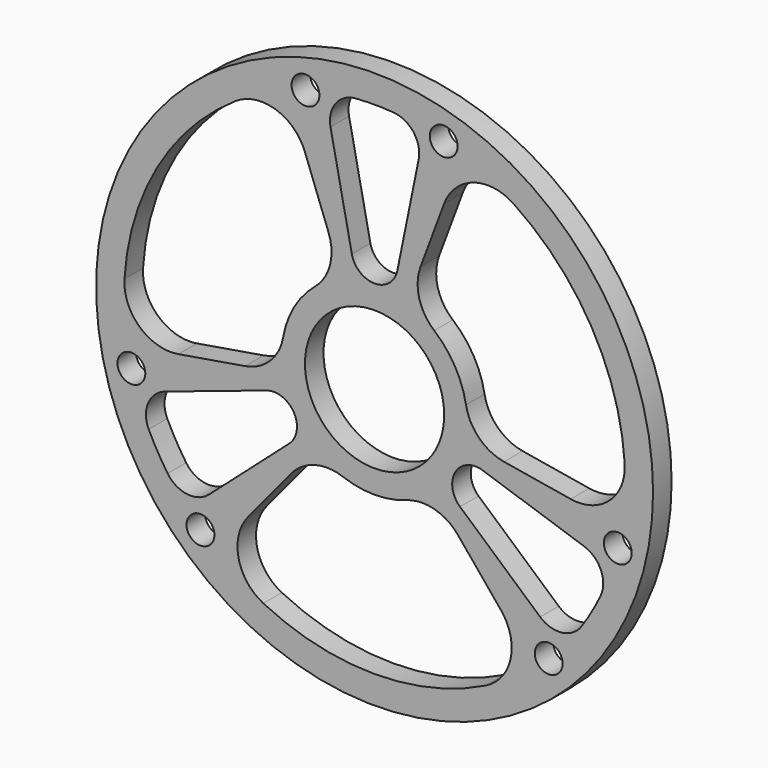
from build123d import *

# Parameters (mm, degrees)
F0_R     = 1524
F0_R_2   = 76.2
F0_R_3   = 381
F1_DEPTH = 127


with BuildPart() as f1:
    # F0 (on Front) → F1 (new body)
    with BuildSketch(Plane.XZ):
        Circle(F0_R)
        with Locations((-952.793421, -986.64647)):
            Circle(F0_R_2, mode=Mode.SUBTRACT)
        with BuildLine():
            ThreePointArc((-1236.116953, -594.391653), (-1239.14932, -469.02207), (-1147.127855, -383.823611))
            Line((-1147.127855, -383.823611), (-591.96728, -198.069481))
            ThreePointArc((-591.96728, -198.069481), (-441.684362, -255.006585), (-467.516842, -413.623962))
            Line((-467.516842, -413.623962), (-905.964925, -801.530058))
            ThreePointArc((-905.964925, -801.530058), (-1025.759688, -838.623755), (-1132.816748, -773.312857))
            ThreePointArc((-1132.816748, -773.312857), (-1187.840444, -685.8), (-1236.116953, -594.391653))
        make_face(mode=Mode.SUBTRACT)
        with Locations((-1330.857618, -331.820072)):
            Circle(F0_R_2, mode=Mode.SUBTRACT)
        with BuildLine():
            ThreePointArc((-456.971626, -554.350911), (-327.727364, -470.842027), (-173.985988, -477.276519))
            ThreePointArc((-173.985988, -477.276519), (0, -508), (173.985988, -477.276519))
            ThreePointArc((173.985988, -477.276519), (327.727364, -470.842027), (456.971626, -554.350911))
            Line((456.971626, -554.350911), (692.27808, -839.800465))
            ThreePointArc((692.27808, -839.800465), (744.671817, -1054.469942), (609.07758, -1228.947135))
            ThreePointArc((609.07758, -1228.947135), (0, -1371.6), (-609.07758, -1228.947135))
            ThreePointArc((-609.07758, -1228.947135), (-744.671817, -1054.469942), (-692.27808, -839.800465))
            Line((-692.27808, -839.800465), (-456.971626, -554.350911))
        make_face(mode=Mode.SUBTRACT)
        with Locations((952.793421, -986.64647)):
            Circle(F0_R_2, mode=Mode.SUBTRACT)
        with BuildLine():
            ThreePointArc((1132.816748, -773.312857), (1025.759688, -838.623755), (905.964925, -801.530058))
            Line((905.964925, -801.530058), (467.516842, -413.623962))
            ThreePointArc((467.516842, -413.623962), (441.684362, -255.006585), (591.96728, -198.069481))
            Line((591.96728, -198.069481), (1147.127855, -383.823611))
            ThreePointArc((1147.127855, -383.823611), (1239.14932, -469.02207), (1236.116953, -594.391653))
            ThreePointArc((1236.116953, -594.391653), (1187.840444, -685.8), (1132.816748, -773.312857))
        make_face(mode=Mode.SUBTRACT)
        with Locations((1330.857618, -331.820072)):
            Circle(F0_R_2, mode=Mode.SUBTRACT)
        with BuildLine():
            ThreePointArc((-251.596158, 672.924493), (-243.897475, 519.241236), (-326.340596, 389.314545))
            ThreePointArc((-326.340596, 389.314545), (-439.940905, 254), (-500.326584, 87.961974))
            ThreePointArc((-500.326584, 87.961974), (-571.624839, -48.399209), (-708.567785, -118.573582))
            Line((-708.567785, -118.573582), (-1073.427576, -179.630171))
            ThreePointArc((-1073.427576, -179.630171), (-1285.533665, -117.66974), (-1368.838229, 86.99691))
            ThreePointArc((-1368.838229, 86.99691), (-1187.840444, 685.8), (-759.760649, 1141.950225))
            ThreePointArc((-759.760649, 1141.950225), (-540.861849, 1172.139682), (-381.149497, 1019.430636))
            Line((-381.149497, 1019.430636), (-251.596158, 672.924493))
        make_face(mode=Mode.SUBTRACT)
        with Locations((-378.064197, 1318.466542)):
            Circle(F0_R_2, mode=Mode.SUBTRACT)
        Circle(F0_R_3, mode=Mode.SUBTRACT)
        with BuildLine():
            ThreePointArc((708.567785, -118.573582), (571.624839, -48.399209), (500.326584, 87.961974))
            ThreePointArc((500.326584, 87.961974), (439.940905, 254), (326.340596, 389.314545))
            ThreePointArc((326.340596, 389.314545), (243.897475, 519.241236), (251.596158, 672.924493))
            Line((251.596158, 672.924493), (381.149497, 1019.430636))
            ThreePointArc((381.149497, 1019.430636), (540.861849, 1172.139682), (759.760649, 1141.950225))
            ThreePointArc((759.760649, 1141.950225), (1187.840444, 685.8), (1368.838229, 86.99691))
            ThreePointArc((1368.838229, 86.99691), (1285.533665, -117.66974), (1073.427576, -179.630171))
            Line((1073.427576, -179.630171), (708.567785, -118.573582))
        make_face(mode=Mode.SUBTRACT)
        with BuildLine():
            ThreePointArc((-103.300205, 1367.70451), (0, 1371.6), (103.300205, 1367.70451))
            ThreePointArc((103.300205, 1367.70451), (213.389632, 1307.645825), (241.16293, 1185.353669))
            Line((241.16293, 1185.353669), (124.450437, 611.693443))
            ThreePointArc((124.450437, 611.693443), (0, 510.013171), (-124.450437, 611.693443))
            Line((-124.450437, 611.693443), (-241.16293, 1185.353669))
            ThreePointArc((-241.16293, 1185.353669), (-213.389632, 1307.645825), (-103.300205, 1367.70451))
        make_face(mode=Mode.SUBTRACT)
        with Locations((378.064197, 1318.466542)):
            Circle(F0_R_2, mode=Mode.SUBTRACT)
    extrude(amount=F1_DEPTH)


solid = f1.part
